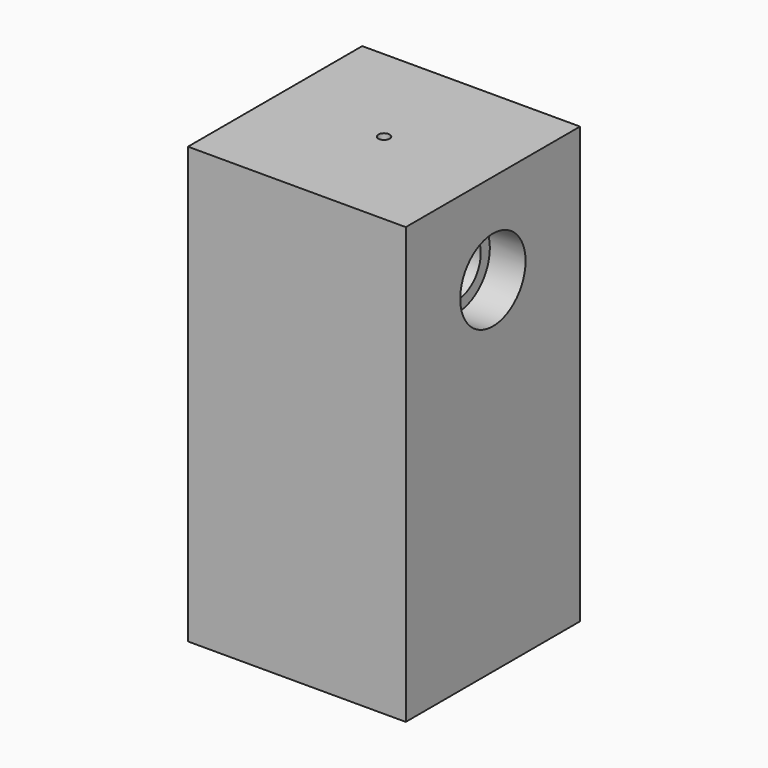
from build123d import *

# Parameters (mm, degrees)
F0_W      = 152.4
F0_H      = 152.4
F1_DEPTH  = 304.8
F2_R      = 28.56865
F3_DEPTH  = 25
F4_R      = 28.56865
F5_DEPTH  = 25
F6_R      = 20.6375
F7_DEPTH  = 264.16
F8_R      = 3.96875
F9_DEPTH  = 25.4
F10_R     = 3.96875
F11_DEPTH = 48.26


with BuildPart() as f1:
    # F0 (on Top) → F1 (new body)
    with BuildSketch(Plane.XY):
        with Locations((76.2, 76.2)):
            Rectangle(F0_W, F0_H)
    extrude(amount=F1_DEPTH)

    # F2 (on face) → F3 (cut)
    with BuildSketch(Plane.YZ.offset(152.4)):
        with Locations((76.2, 241.3)):
            Circle(F2_R)
    extrude(amount=-F3_DEPTH, mode=Mode.SUBTRACT)

    # F4 (on face) → F5 (cut)
    with BuildSketch(Plane(origin=(0, 0, 0), x_dir=(0, -1, 0), z_dir=(-1, 0, 0))):
        with Locations((-76.2, 241.3)):
            Circle(F4_R)
    extrude(amount=-F5_DEPTH, mode=Mode.SUBTRACT)

    # F6 (on face) → F7 (cut)
    with BuildSketch(Plane(origin=(25, 0, 0), x_dir=(0, -1, 0), z_dir=(-1, 0, 0))):
        with Locations((-76.2, 241.3)):
            Circle(F6_R)
    extrude(amount=-F7_DEPTH, mode=Mode.SUBTRACT)

    # F8 (on face) → F9 (cut)
    with BuildSketch(Plane(origin=(0, 0, 0), x_dir=(1, 0, 0), z_dir=(0, 0, -1))):
        with Locations((31.75, -31.75)):
            Circle(F8_R)
        with Locations((120.65, -31.75)):
            Circle(F8_R)
        with Locations((120.65, -120.65)):
            Circle(F8_R)
        with Locations((31.75, -120.65)):
            Circle(F8_R)
    extrude(amount=-F9_DEPTH, mode=Mode.SUBTRACT)

    # F10 (on face) → F11 (cut)
    with BuildSketch(Plane.XY.offset(304.8)):
        with Locations((76.2, 76.2)):
            Circle(F10_R)
    extrude(amount=-F11_DEPTH, mode=Mode.SUBTRACT)


solid = f1.part
